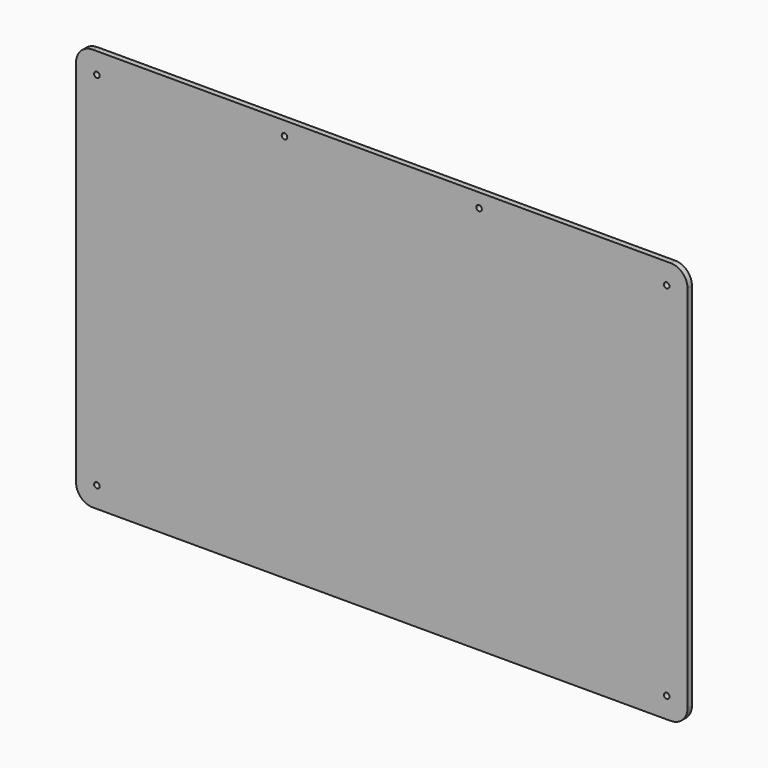
from build123d import *

# Parameters (mm, degrees)
F0_W     = 440
F0_H     = 290
F0_R     = 2
F1_DEPTH = 4
F2_R     = 12


with BuildPart() as f1:
    # F0 (on Front) → F1 (new body)
    with BuildSketch(Plane.XZ):
        with Locations((220, 145)):
            Rectangle(F0_W, F0_H)
        with Locations((15, 15)):
            Circle(F0_R, mode=Mode.SUBTRACT)
        with Locations((425, 15)):
            Circle(F0_R, mode=Mode.SUBTRACT)
        with Locations((15, 275)):
            Circle(F0_R, mode=Mode.SUBTRACT)
        with Locations((150, 280)):
            Circle(F0_R, mode=Mode.SUBTRACT)
        with Locations((290, 280)):
            Circle(F0_R, mode=Mode.SUBTRACT)
        with Locations((425, 275)):
            Circle(F0_R, mode=Mode.SUBTRACT)
    extrude(amount=F1_DEPTH)

    # F2
    f2_edges = [f1.edges().sort_by_distance(p)[0] for p in [
        (440, -2, 290),
        (0, -2, 290),
        (0, -2, 0),
        (440, -2, 0),
    ]]
    fillet(f2_edges, radius=F2_R)


solid = f1.part
